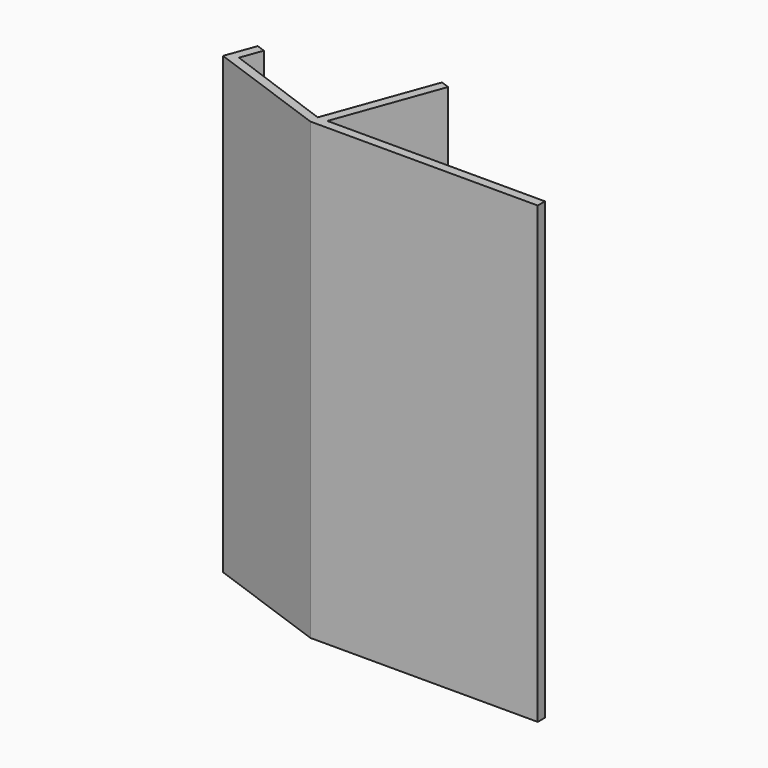
from build123d import *

# Parameters (mm, degrees)
PAD_DEPTH = 100


with BuildPart() as part:
    # Sketch → Pad (new body)
    with BuildSketch(Plane.XY):
        Polygon((0, 0), (50, 0), (50, 2), (2.128374, 2), (10.429907, 24.808275), (8.550522, 25.492316), (1.9e-05, 2), (-24.43199, 10.892524), (-22.721889, 15.590987), (-24.601274, 16.275027), (-26.995415, 9.697179), align=None)
    extrude(amount=PAD_DEPTH)


solid = part.part
